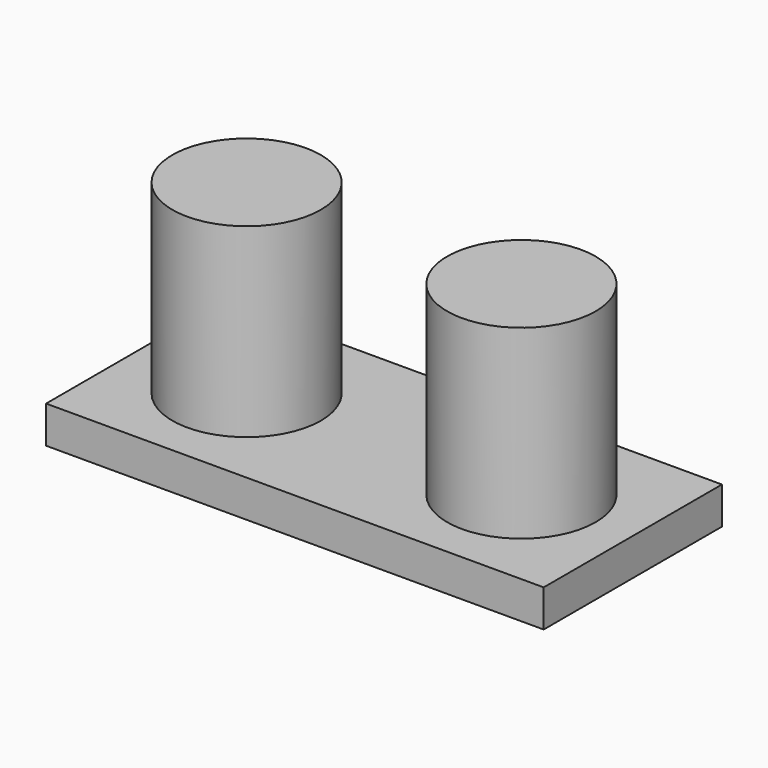
from build123d import *

# Parameters (mm, degrees)
F2_DEPTH = 5
F3_DEPTH = 30


with BuildPart() as f2:
    # F0 (on Top) → F2 (new body)
    with BuildSketch(Plane.XY):
        with BuildLine():
            ThreePointArc((-10, 0), (0, 10), (10, 0))
            Line((10, 0), (27, 0))
            ThreePointArc((27, 0), (37, 10), (47, 0))
            Line((47, 0), (52, 0))
            Line((52, 0), (52, 15))
            Line((52, 15), (-15, 15))
            Line((-15, 15), (-15, 0))
            Line((-15, 0), (-10, 0))
        make_face()
        with BuildLine():
            Line((27, 0), (10, 0))
            ThreePointArc((10, 0), (0, -10), (-10, 0))
            Line((-10, 0), (-15, 0))
            Line((-15, 0), (-15, -15))
            Line((-15, -15), (52, -15))
            Line((52, -15), (52, 0))
            Line((52, 0), (47, 0))
            ThreePointArc((47, 0), (37, -10), (27, 0))
        make_face()
    extrude(amount=F2_DEPTH)

    # F0 (on Top) → F3 (join)
    with BuildSketch(Plane.XY):
        with BuildLine():
            ThreePointArc((-10, 0), (0, -10), (10, 0))
            Line((10, 0), (0, 0))
            Line((0, 0), (-10, 0))
        make_face()
        with BuildLine():
            Line((0, 0), (10, 0))
            ThreePointArc((10, 0), (0, 10), (-10, 0))
            Line((-10, 0), (0, 0))
        make_face()
        with BuildLine():
            Line((37, 0), (27, 0))
            ThreePointArc((27, 0), (37, -10), (47, 0))
            Line((47, 0), (37, 0))
        make_face()
        with BuildLine():
            ThreePointArc((47, 0), (37, 10), (27, 0))
            Line((27, 0), (37, 0))
            Line((37, 0), (47, 0))
        make_face()
    extrude(amount=F3_DEPTH)


solid = f2.part
